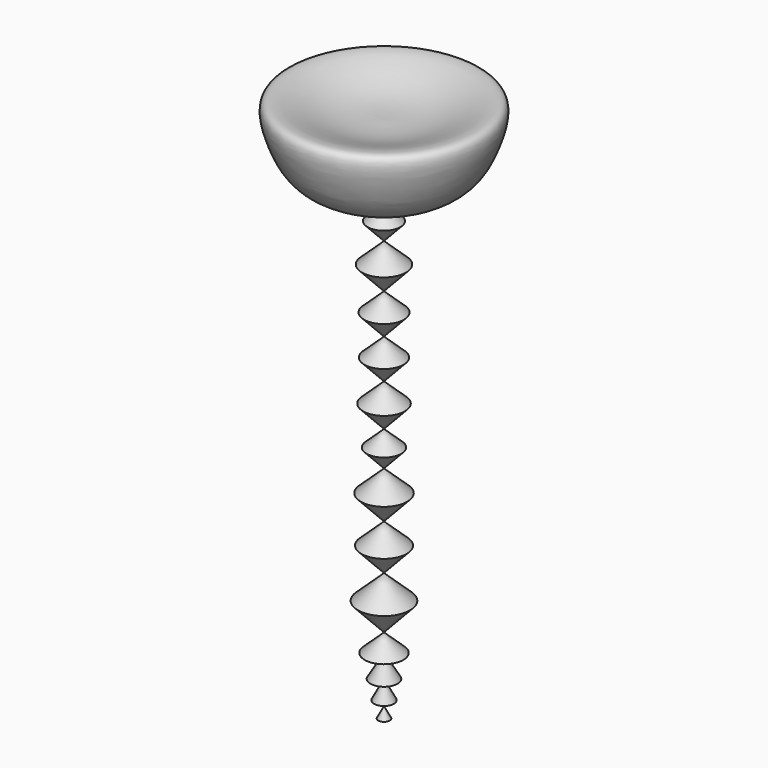
from build123d import *


with BuildPart() as f1:
    # F0 (on Front) → F1 (revolve)
    with BuildSketch(Plane.XZ):
        Polygon((0, -95.1489967457), (0, -79.2251494276), (-7.9441810413, -86.6558330886), align=None)
    revolve(axis=Axis((0, 0, -46.6453954577), (0, 0, 1)))


with BuildPart() as f1b:
    # F0 (on Front) → F1, piece 2 (revolve)
    with BuildSketch(Plane.XZ):
        Polygon((0, 7.2208398858), (0, 18.7883116305), (-5.7708472013, 13.390481472), align=None)
    revolve(axis=Axis((0, 0, -46.6453954577), (0, 0, 1)))


with BuildPart() as f1c:
    # F0 (on Front) → F1, piece 3 (revolve)
    with BuildSketch(Plane.XZ):
        Polygon((0, -136.1957291641), (0, -127.7744174004), (-3.4820102155, -134.3526095152), align=None)
    revolve(axis=Axis((0, 0, -46.6453954577), (0, 0, 1)))


with BuildPart() as f1d:
    # F0 (on Front) → F1, piece 4 (revolve)
    with BuildSketch(Plane.XZ):
        Polygon((0, -79.2251494276), (0, -62.8923017698), (-8.1482254961, -70.513840824), align=None)
    revolve(axis=Axis((0, 0, -46.6453954577), (0, 0, 1)))


with BuildPart() as f1e:
    # F0 (on Front) → F1, piece 5 (revolve)
    with BuildSketch(Plane.XZ):
        Polygon((0, -22.2346434723), (0, -8.2533152654), (-6.9750858731, -14.7775443032), align=None)
    revolve(axis=Axis((0, 0, -46.6453954577), (0, 0, 1)))


with BuildPart() as f1f:
    # F0 (on Front) → F1, piece 6 (revolve)
    with BuildSketch(Plane.XZ):
        Polygon((0, -36.0364122927), (0, -22.2346434723), (-6.8855062479, -28.6750831485), align=None)
    revolve(axis=Axis((0, 0, -46.6453954577), (0, 0, 1)))


with BuildPart() as f1g:
    # F0 (on Front) → F1, piece 7 (revolve)
    with BuildSketch(Plane.XZ):
        Polygon((0, -50.726854233), (0, -36.0364122927), (-7.3288526334, -42.8915412523), align=None)
    revolve(axis=Axis((0, 0, -46.6453954577), (0, 0, 1)))


with BuildPart() as f1h:
    # F0 (on Front) → F1, piece 8 (revolve)
    with BuildSketch(Plane.XZ):
        Polygon((0, -62.8923017698), (0, -50.726854233), (-6.0691688227, -56.4037230471), align=None)
    revolve(axis=Axis((0, 0, -46.6453954577), (0, 0, 1)))


with BuildPart() as f1i:
    # F0 (on Front) → F1, piece 9 (revolve)
    with BuildSketch(Plane.XZ):
        Polygon((0, -119.7666891122), (0, -113.4379062426), (-6.7661333978, -119.7666891122), align=None)
    revolve(axis=Axis((0, 0, -46.6453954577), (0, 0, 1)))


with BuildPart() as f1j:
    # F0 (on Front) → F1, piece 10 (revolve)
    with BuildSketch(Plane.XZ):
        Polygon((0, -141.0665134841), (0, -136.1957291641), (-2.013952367, -140.0004754917), align=None)
    revolve(axis=Axis((0, 0, -46.6453954577), (0, 0, 1)))


with BuildPart() as f1k:
    # F0 (on Front) → F1, piece 11 (revolve)
    with BuildSketch(Plane.XZ):
        Polygon((0, -113.4379062426), (0, -95.1489967457), (-9.1240769387, -103.6833099843), align=None)
    revolve(axis=Axis((0, 0, -46.6453954577), (0, 0, 1)))


with BuildPart() as f1l:
    # F0 (on Front) → F1, piece 12 (revolve)
    with BuildSketch(Plane.XZ):
        Polygon((0, -8.2533152654), (0, 7.2208398858), (-7.7198360124, 0), align=None)
    revolve(axis=Axis((0, 0, -46.6453954577), (0, 0, 1)))


with BuildPart() as f1m:
    # F0 (on Front) → F1, piece 13 (revolve)
    with BuildSketch(Plane.XZ):
        Polygon((0, -127.7744174004), (0, -119.7666891122), (-4.7349967062, -127.7744174004), align=None)
    revolve(axis=Axis((0, 0, -46.6453954577), (0, 0, 1)))


with BuildPart() as f1n:
    # F0 (on Front) → F1, piece 14 (revolve)
    with BuildSketch(Plane.XZ):
        with BuildLine():
            add(Edge.make_bspline(
                [(0, 18.7883116305), (-8.9691636442, 20.9635996663), (-24.6976594702, 24.7782288011), (-31.8426143145, 36.5603524879), (-37.0414979626, 55.4366978001), (-14.9249380256, 43.943580586), (-4.9088548771, 44.2007847597), (0, 44.3268418312)],
                knots=[0, 0, 0, 0, 0.2442039614, 0.4282406998, 0.5979969665, 0.8029792209, 1, 1, 1, 1], degree=3))
            Line((0, 18.7883116305), (0, 44.3268418312))
        make_face()
    revolve(axis=Axis((0, 0, -46.6453954577), (0, 0, 1)))


solid = Compound([f1.part, f1b.part, f1c.part, f1d.part, f1e.part, f1f.part, f1g.part, f1h.part, f1i.part, f1j.part, f1k.part, f1l.part, f1m.part, f1n.part])
